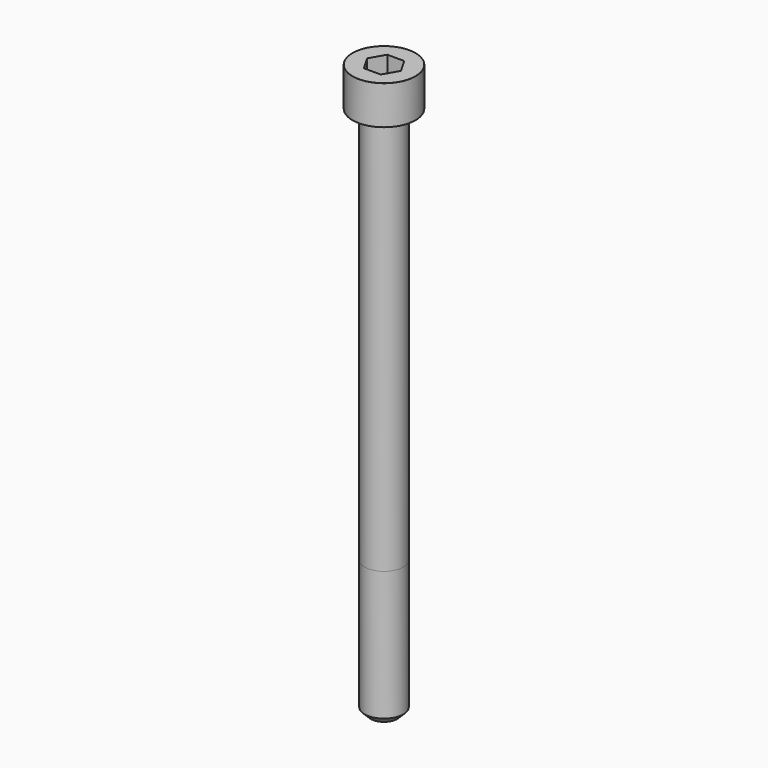
from build123d import *

# Parameters (mm, degrees)
POCKET_DEPTH = 6.06


with BuildPart() as part:
    # Sketch → Revolve (revolve)
    with BuildSketch(Plane.YZ):
        with BuildLine():
            Line((3.999, 0), (6.5, 0))
            Line((6.5, 0), (6.5, 7.97229))
            ThreePointArc((6.5, 7.97229), (6.491884, 7.991884), (6.47229, 8))
            Line((6.47229, 8), (0, 8))
            Line((0, -110), (0, 8))
            Line((2.75, -110), (0, -110))
            Line((4, -108.75), (2.75, -110))
            Line((4, -82), (4, -108.75))
            Line((3.999, 0), (4, -82))
        make_face()
    revolve(axis=Axis((0, 0, 0), (0, 0, 1)))

    # Sketch001 → Pocket (cut)
    with BuildSketch(Plane.XY.offset(8)):
        Polygon((3.498743, 0), (1.749371, 3.03), (-1.749371, 3.03), (-3.498743, 0), (-1.749371, -3.03), (1.749371, -3.03), align=None)
    extrude(amount=-POCKET_DEPTH, mode=Mode.SUBTRACT)


solid = part.part
